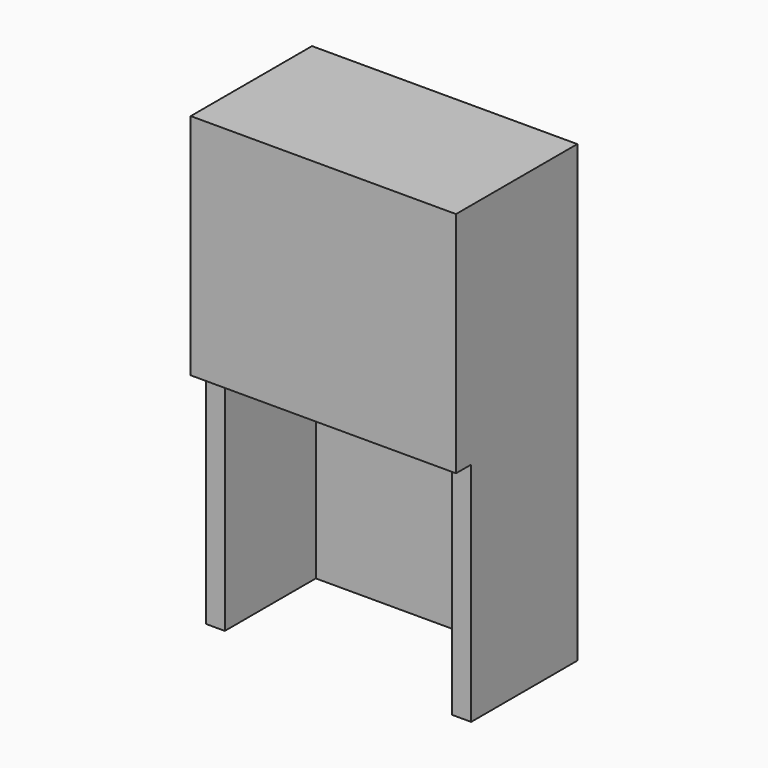
from build123d import *

# Parameters (mm, degrees)
F0_W     = 70
F0_H     = 120
F1_DEPTH = 40
F2_W     = 60
F2_H     = 30
F3_DEPTH = 60
F4_W     = 70
F4_H     = 59.779245
F5_DEPTH = 5


with BuildPart() as f1:
    # F0 (on Front) → F1 (new body)
    with BuildSketch(Plane.XZ):
        with Locations((7.426471, 60)):
            Rectangle(F0_W, F0_H)
    extrude(amount=F1_DEPTH)

    # F2 (on Top) → F3 (cut)
    with BuildSketch(Plane.XY):
        with Locations((7.426471, -20)):
            Rectangle(F2_W, F2_H)
    extrude(amount=F3_DEPTH, mode=Mode.SUBTRACT)

    # F4 (on face) → F5 (cut)
    with BuildSketch(Plane.XZ.offset(40)):
        with Locations((7.426471, 29.889622)):
            Rectangle(F4_W, F4_H)
    extrude(amount=-F5_DEPTH, mode=Mode.SUBTRACT)


solid = f1.part
